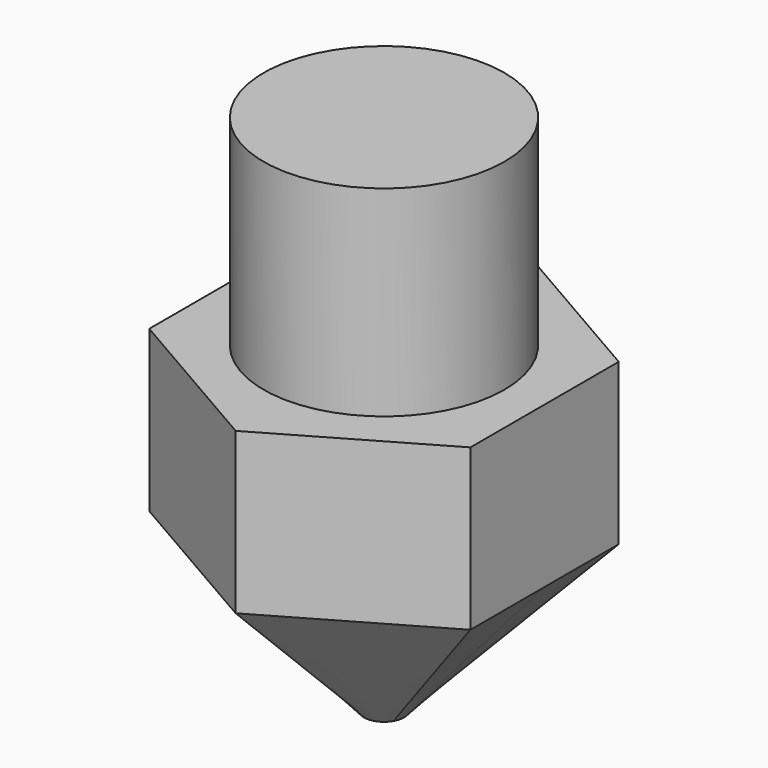
from build123d import *

# Parameters (mm, degrees)
F0_R     = 3
F1_DEPTH = 5
F2_DEPTH = 4
F4_R     = 0.5


with BuildPart() as f1:
    # F0 (on Top) → F1 (new body)
    with BuildSketch(Plane.XY):
        Circle(F0_R)
    extrude(amount=F1_DEPTH)

    # F0 (on Top) → F2 (join)
    with BuildSketch(Plane.XY):
        Polygon((4, -2.309401), (4, 2.309401), (0, 4.618802), (-4, 2.309401), (-4, -2.309401), (0, -4.618802), align=None)
        Circle(F0_R, mode=Mode.SUBTRACT)
        Circle(F0_R)
    extrude(amount=-F2_DEPTH)

    # F2_face (on face) → F5 section 0
    with BuildSketch(Plane(origin=(0, 0, -4), x_dir=(1, 0, 0), z_dir=(0, 0, -1))):
        Polygon((4, -2.309401), (4, 2.309401), (0, 4.618802), (-4, 2.309401), (-4, -2.309401), (0, -4.618802), align=None)
    # F4 (on offset) → F5 section 1
    with BuildSketch(Plane.XY.offset(-8)):
        Circle(F4_R)
    loft()


solid = f1.part
